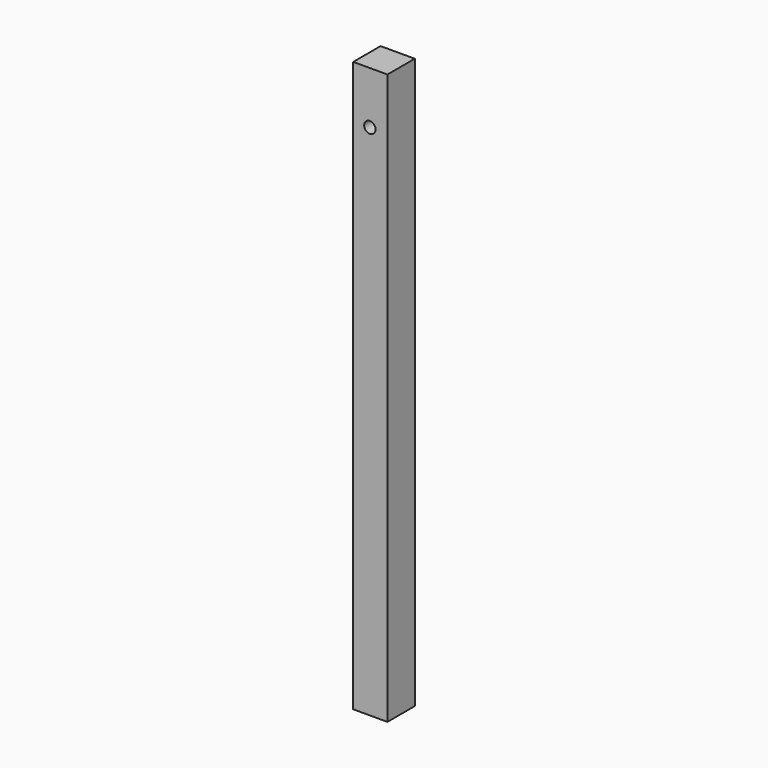
from build123d import *

# Parameters (mm, degrees)
F0_W           = 30
F0_H           = 500
F1_DEPTH       = 30
F2_D           = 10
F2_CSINK_D     = 12
F2_CSINK_ANGLE = 90


with BuildPart() as f1:
    # F0 (on Front) → F1 (new body)
    with BuildSketch(Plane.XZ):
        with Locations((0.3963927738, 157.8636374871)):
            Rectangle(F0_W, F0_H)
    extrude(amount=F1_DEPTH)

    # F2 (through all)
    with Locations(Plane(origin=(0, 0, 0), x_dir=(1, 0, 0), z_dir=(0, 1, 0))):
        with Locations((0, -362.025141716)):
            CounterSinkHole(F2_D / 2, F2_CSINK_D / 2, counter_sink_angle=F2_CSINK_ANGLE)


solid = f1.part
